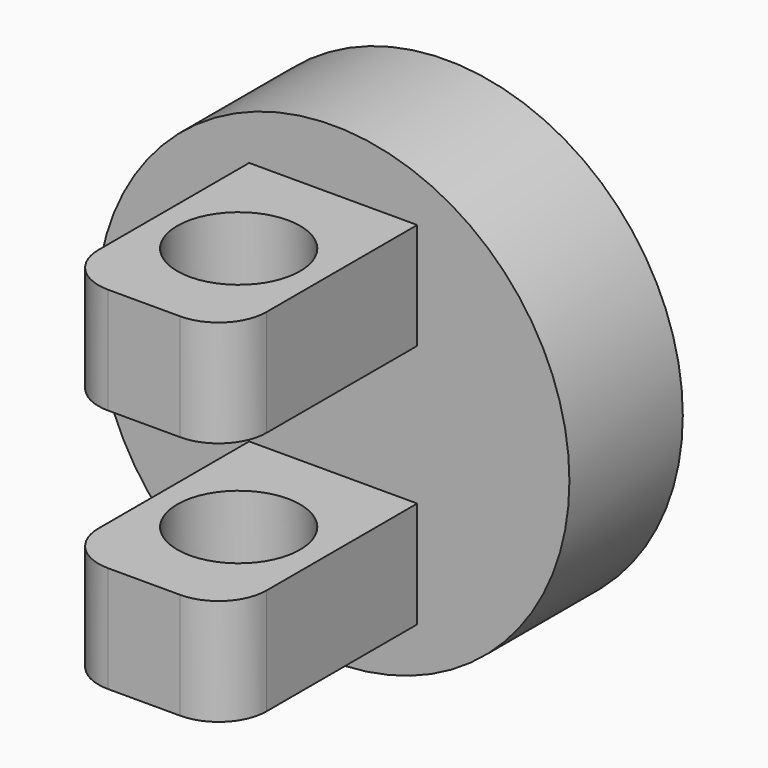
from build123d import *

# Parameters (mm, degrees)
F0_R     = 25
F1_DEPTH = 15
F2_W     = 17.784364
F2_H     = 37.209642
F3_DEPTH = 25
F6_D     = 13
F4_W     = 17.784364
F4_H     = 14.687386
F7_DEPTH = 25
F8_R     = 5.08


with BuildPart() as f1:
    # F0 (on Front) → F1 (new body)
    with BuildSketch(Plane.XZ):
        Circle(F0_R)
    extrude(amount=F1_DEPTH)

    # F2 (on face) → F3 (join)
    with BuildSketch(Plane.XZ.offset(15)):
        Rectangle(F2_W, F2_H)
    extrude(amount=F3_DEPTH)

    # F6 (through all)
    with Locations(Plane(origin=(0, 0, -18.604821), x_dir=(1, 0, 0), z_dir=(0, 0, -1))):
        with Locations((0, 27.5)):
            Hole(F6_D / 2)

    # F4 (on face) → F7 (cut)
    with BuildSketch(Plane.XZ.offset(40)):
        Rectangle(F4_W, F4_H)
    extrude(amount=-F7_DEPTH, mode=Mode.SUBTRACT)

    # F8
    f8_edges = [f1.edges().sort_by_distance(p)[0] for p in [
        (8.892182, -40, -12.974257),
        (8.892182, -40, 12.974257),
        (-8.892182, -40, 12.974257),
        (-8.892182, -40, -12.974257),
    ]]
    fillet(f8_edges, radius=F8_R)


solid = f1.part
